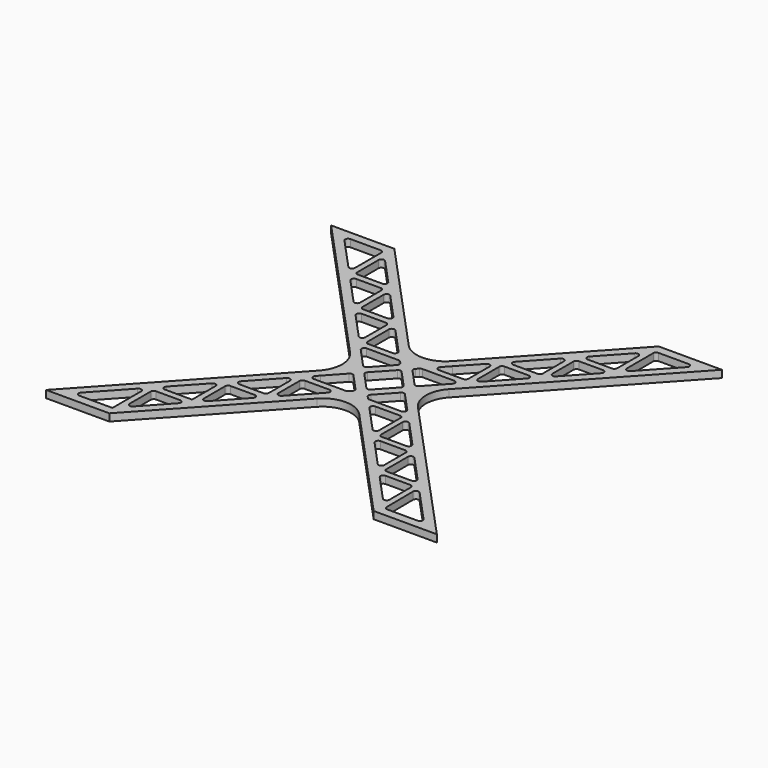
from build123d import *

# Parameters (mm, degrees)
F1_DEPTH = 12.7


with BuildPart() as f1:
    # F0 (on Top) → F1 (new body)
    with BuildSketch(Plane.XY):
        with BuildLine():
            Line((-86.110934, 276.160037), (-340, 0))
            Line((-340, 0), (-230, 0))
            Line((-230, 0), (-36.808381, 210.138252))
            ThreePointArc((-36.808381, 210.138252), (0, 226.298289), (36.808381, 210.138252))
            Line((36.808381, 210.138252), (230, 0))
            Line((230, 0), (340, 0))
            Line((340, 0), (86.110934, 276.160037))
            ThreePointArc((86.110934, 276.160037), (72.919315, 310), (86.110934, 343.839963))
            Line((86.110934, 343.839963), (340, 620))
            Line((340, 620), (230, 620))
            Line((230, 620), (36.808381, 409.861748))
            ThreePointArc((36.808381, 409.861748), (0, 393.701711), (-36.808381, 409.861748))
            Line((-36.808381, 409.861748), (-230, 620))
            Line((-230, 620), (-340, 620))
            Line((-340, 620), (-86.110934, 343.839963))
            ThreePointArc((-86.110934, 343.839963), (-72.919315, 310), (-86.110934, 276.160037))
        make_face()
        with BuildLine():
            Line((-236.585472, 15), (-294.445177, 15))
            ThreePointArc((-294.445177, 15), (-299.023386, 17.990023), (-298.126015, 23.383996))
            Line((-298.126015, 23.383996), (-245.26631, 80.880518))
            ThreePointArc((-245.26631, 80.880518), (-239.769458, 82.155073), (-236.585472, 77.496522))
            Line((-236.585472, 77.496522), (-236.585472, 15))
        make_face(mode=Mode.SUBTRACT)
        with BuildLine():
            Line((-175.044928, 81.938837), (-217.428801, 35.837081))
            ThreePointArc((-217.428801, 35.837081), (-222.925652, 34.562526), (-226.109639, 39.221077))
            Line((-226.109639, 39.221077), (-226.109639, 85.322833))
            ThreePointArc((-226.109639, 85.322833), (-224.645173, 88.858367), (-221.109639, 90.322833))
            Line((-221.109639, 90.322833), (-178.725766, 90.322833))
            ThreePointArc((-178.725766, 90.322833), (-174.147558, 87.332811), (-175.044928, 81.938837))
        make_face(mode=Mode.SUBTRACT)
        with BuildLine():
            Line((-167.337061, 152.819355), (-167.337061, 101.717599))
            Line((-167.337061, 101.717599), (-214.720933, 101.717599))
            ThreePointArc((-214.720933, 101.717599), (-219.299142, 104.707621), (-218.401771, 110.101595))
            Line((-218.401771, 110.101595), (-176.017899, 156.203351))
            ThreePointArc((-176.017899, 156.203351), (-170.521047, 157.477906), (-167.337061, 152.819355))
        make_face(mode=Mode.SUBTRACT)
        with BuildLine():
            ThreePointArc((-156.861228, 160.645667), (-155.396762, 164.1812), (-151.861228, 165.645667))
            Line((-151.861228, 165.645667), (-109.477355, 165.645667))
            ThreePointArc((-109.477355, 165.645667), (-104.899147, 162.655644), (-105.796517, 157.26167))
            Line((-105.796517, 157.26167), (-148.18039, 111.159914))
            ThreePointArc((-148.18039, 111.159914), (-153.677241, 109.885359), (-156.861228, 114.54391))
            Line((-156.861228, 114.54391), (-156.861228, 160.645667))
        make_face(mode=Mode.SUBTRACT)
        with BuildLine():
            Line((-98.088649, 228.142188), (-98.088649, 182.040432))
            ThreePointArc((-98.088649, 182.040432), (-99.553115, 178.504898), (-103.088649, 177.040432))
            Line((-103.088649, 177.040432), (-145.472522, 177.040432))
            ThreePointArc((-145.472522, 177.040432), (-150.05073, 180.030455), (-149.15336, 185.424428))
            Line((-149.15336, 185.424428), (-106.769487, 231.526185))
            ThreePointArc((-106.769487, 231.526185), (-101.272636, 232.800739), (-98.088649, 228.142188))
        make_face(mode=Mode.SUBTRACT)
        with BuildLine():
            ThreePointArc((-87.612817, 236.020562), (-86.154296, 239.550141), (-82.629646, 241.020533))
            Line((-82.629646, 241.020533), (-40.066199, 241.163798))
            ThreePointArc((-40.066199, 241.163798), (-35.47455, 238.181506), (-36.368531, 232.77983))
            Line((-36.368531, 232.77983), (-47.850895, 220.290241))
            Line((-47.850895, 220.290241), (-78.931978, 186.482747))
            ThreePointArc((-78.931978, 186.482747), (-84.42883, 185.208193), (-87.612817, 189.866743))
            Line((-87.612817, 189.866743), (-87.612817, 236.020562))
        make_face(mode=Mode.SUBTRACT)
        with BuildLine():
            Line((-79.904949, 260.747262), (-75.06842, 266.008048))
            Line((-75.06842, 266.008048), (-48.492941, 294.914709))
            ThreePointArc((-48.492941, 294.914709), (-44.812103, 296.530713), (-41.131265, 294.914709))
            Line((-41.131265, 294.914709), (-13.298991, 264.641007))
            ThreePointArc((-13.298991, 264.641007), (-11.979829, 261.257011), (-13.298991, 257.873015))
            Line((-13.298991, 257.873015), (-16.878724, 253.979269))
            ThreePointArc((-16.878724, 253.979269), (-18.549585, 252.785057), (-20.559563, 252.363265))
            Line((-20.559563, 252.363265), (-76.224111, 252.363265))
            ThreePointArc((-76.224111, 252.363265), (-80.802319, 255.353288), (-79.904949, 260.747262))
        make_face(mode=Mode.SUBTRACT)
        with BuildLine():
            ThreePointArc((-31.513112, 306.616004), (-32.832274, 310), (-31.513112, 313.383996))
            Line((-31.513112, 313.383996), (-3.680838, 343.657698))
            ThreePointArc((-3.680838, 343.657698), (0, 345.273702), (3.680838, 343.657698))
            Line((3.680838, 343.657698), (31.513112, 313.383996))
            ThreePointArc((31.513112, 313.383996), (32.832274, 310), (31.513112, 306.616004))
            Line((31.513112, 306.616004), (3.680838, 276.342302))
            ThreePointArc((3.680838, 276.342302), (0, 274.726298), (-3.680838, 276.342302))
            Line((-3.680838, 276.342302), (-31.513112, 306.616004))
        make_face(mode=Mode.SUBTRACT)
        with BuildLine():
            ThreePointArc((105.191325, 157.919949), (104.293955, 163.313922), (108.872163, 166.303945))
            Line((108.872163, 166.303945), (151.861228, 166.303945))
            ThreePointArc((151.861228, 166.303945), (155.396762, 164.839479), (156.861228, 161.303945))
            Line((156.861228, 161.303945), (156.861228, 114.54391))
            ThreePointArc((156.861228, 114.54391), (153.677241, 109.885359), (148.18039, 111.159914))
            Line((148.18039, 111.159914), (105.191325, 157.919949))
        make_face(mode=Mode.SUBTRACT)
        with BuildLine():
            ThreePointArc((226.109639, 39.221077), (222.925652, 34.562526), (217.428801, 35.837081))
            Line((217.428801, 35.837081), (174.439737, 82.597115))
            ThreePointArc((174.439737, 82.597115), (173.542366, 87.991089), (178.120575, 90.981112))
            Line((178.120575, 90.981112), (221.109639, 90.981112))
            ThreePointArc((221.109639, 90.981112), (224.645173, 89.516646), (226.109639, 85.981112))
            Line((226.109639, 85.981112), (226.109639, 39.221077))
        make_face(mode=Mode.SUBTRACT)
        with BuildLine():
            Line((244.764333, 81.426528), (298.126015, 23.383996))
            ThreePointArc((298.126015, 23.383996), (299.023386, 17.990023), (294.445177, 15))
            Line((294.445177, 15), (241.545805, 15))
            ThreePointArc((241.545805, 15), (238.024379, 16.450414), (236.545964, 19.960176))
            Line((236.545964, 19.960176), (236.083654, 78.002708))
            ThreePointArc((236.083654, 78.002708), (239.248944, 82.693813), (244.764333, 81.426528))
        make_face(mode=Mode.SUBTRACT)
        with BuildLine():
            Line((166.731869, 106.717599), (166.731869, 153.477634))
            ThreePointArc((166.731869, 153.477634), (169.915856, 158.136184), (175.412707, 156.86163))
            Line((175.412707, 156.86163), (218.247614, 110.269275))
            ThreePointArc((218.247614, 110.269275), (219.162932, 104.767422), (214.493159, 101.717599))
            Line((214.493159, 101.717599), (171.731869, 101.717599))
            ThreePointArc((171.731869, 101.717599), (168.196335, 103.182065), (166.731869, 106.717599))
        make_face(mode=Mode.SUBTRACT)
        with BuildLine():
            ThreePointArc((82.595987, 241.576668), (86.142395, 240.118176), (87.612817, 236.576697))
            Line((87.612817, 236.576697), (87.612817, 189.866743))
            ThreePointArc((87.612817, 189.866743), (84.42883, 185.208193), (78.931978, 186.482747))
            Line((78.931978, 186.482747), (47.850895, 220.290241))
            Line((47.850895, 220.290241), (36.121433, 233.048604))
            ThreePointArc((36.121433, 233.048604), (35.220686, 238.43487), (39.785441, 241.432572))
            Line((39.785441, 241.432572), (82.595987, 241.576668))
        make_face(mode=Mode.SUBTRACT)
        with BuildLine():
            Line((97.483458, 182.040432), (97.483458, 228.800467))
            ThreePointArc((97.483458, 228.800467), (100.667444, 233.459018), (106.164296, 232.184463))
            Line((106.164296, 232.184463), (149.15336, 185.424428))
            ThreePointArc((149.15336, 185.424428), (150.05073, 180.030455), (145.472522, 177.040432))
            Line((145.472522, 177.040432), (102.483458, 177.040432))
            ThreePointArc((102.483458, 177.040432), (98.947924, 178.504898), (97.483458, 182.040432))
        make_face(mode=Mode.SUBTRACT)
        with BuildLine():
            Line((48.492941, 294.914709), (75.06842, 266.008048))
            Line((75.06842, 266.008048), (79.904949, 260.747262))
            ThreePointArc((79.904949, 260.747262), (80.802319, 255.353288), (76.224111, 252.363265))
            Line((76.224111, 252.363265), (20.559563, 252.363265))
            ThreePointArc((20.559563, 252.363265), (18.549585, 252.785057), (16.878724, 253.979269))
            Line((16.878724, 253.979269), (13.298991, 257.873015))
            ThreePointArc((13.298991, 257.873015), (11.979829, 261.257011), (13.298991, 264.641007))
            Line((13.298991, 264.641007), (41.131265, 294.914709))
            ThreePointArc((41.131265, 294.914709), (44.812103, 296.530713), (48.492941, 294.914709))
        make_face(mode=Mode.SUBTRACT)
        with BuildLine():
            Line((-48.492941, 325.085291), (-75.06842, 353.991952))
            Line((-75.06842, 353.991952), (-79.904782, 359.252557))
            ThreePointArc((-79.904782, 359.252557), (-80.802152, 364.64653), (-76.223944, 367.636553))
            Line((-76.223944, 367.636553), (-20.559395, 367.636553))
            ThreePointArc((-20.559395, 367.636553), (-18.549418, 367.214761), (-16.878557, 366.020549))
            Line((-16.878557, 366.020549), (-13.298991, 362.126985))
            ThreePointArc((-13.298991, 362.126985), (-11.979829, 358.742989), (-13.298991, 355.358993))
            Line((-13.298991, 355.358993), (-41.131265, 325.085291))
            ThreePointArc((-41.131265, 325.085291), (-44.812103, 323.469287), (-48.492941, 325.085291))
        make_face(mode=Mode.SUBTRACT)
        with BuildLine():
            ThreePointArc((-103.088649, 442.959386), (-99.553115, 441.49492), (-98.088649, 437.959386))
            Line((-98.088649, 437.959386), (-98.088649, 391.857812))
            ThreePointArc((-98.088649, 391.857812), (-101.272636, 387.199261), (-106.769487, 388.473815))
            Line((-106.769487, 388.473815), (-149.153193, 434.57539))
            ThreePointArc((-149.153193, 434.57539), (-150.050563, 439.969364), (-145.472355, 442.959386))
            Line((-145.472355, 442.959386), (-103.088649, 442.959386))
        make_face(mode=Mode.SUBTRACT)
        with BuildLine():
            Line((-78.931811, 433.517071), (-47.850895, 399.709759))
            Line((-47.850895, 399.709759), (-36.548106, 387.415497))
            ThreePointArc((-36.548106, 387.415497), (-35.650736, 382.021523), (-40.228944, 379.0315))
            Line((-40.228944, 379.0315), (-82.612649, 379.0315))
            ThreePointArc((-82.612649, 379.0315), (-86.148183, 380.495966), (-87.612649, 384.0315))
            Line((-87.612649, 384.0315), (-87.612649, 430.133075))
            ThreePointArc((-87.612649, 430.133075), (-84.428663, 434.791625), (-78.931811, 433.517071))
        make_face(mode=Mode.SUBTRACT)
        with BuildLine():
            ThreePointArc((-172.337061, 518.282219), (-168.801527, 516.817753), (-167.337061, 513.282219))
            Line((-167.337061, 513.282219), (-167.337061, 467.180645))
            ThreePointArc((-167.337061, 467.180645), (-170.521047, 462.522094), (-176.017899, 463.796649))
            Line((-176.017899, 463.796649), (-218.401604, 509.898223))
            ThreePointArc((-218.401604, 509.898223), (-219.298974, 515.292197), (-214.720766, 518.282219))
            Line((-214.720766, 518.282219), (-172.337061, 518.282219))
        make_face(mode=Mode.SUBTRACT)
        with BuildLine():
            ThreePointArc((-298.126015, 596.616004), (-299.023386, 602.009977), (-294.445177, 605))
            Line((-294.445177, 605), (-241.585472, 605))
            ThreePointArc((-241.585472, 605), (-238.049938, 603.535534), (-236.585472, 600))
            Line((-236.585472, 600), (-236.585472, 542.503478))
            ThreePointArc((-236.585472, 542.503478), (-239.769458, 537.844927), (-245.26631, 539.119482))
            Line((-245.26631, 539.119482), (-298.126015, 596.616004))
        make_face(mode=Mode.SUBTRACT)
        with BuildLine():
            Line((-178.725766, 529.677167), (-221.109472, 529.677167))
            ThreePointArc((-221.109472, 529.677167), (-224.645006, 531.141633), (-226.109472, 534.677167))
            Line((-226.109472, 534.677167), (-226.109472, 580.778741))
            ThreePointArc((-226.109472, 580.778741), (-222.925485, 585.437292), (-217.428634, 584.162738))
            Line((-217.428634, 584.162738), (-175.044928, 538.061163))
            ThreePointArc((-175.044928, 538.061163), (-174.147558, 532.667189), (-178.725766, 529.677167))
        make_face(mode=Mode.SUBTRACT)
        with BuildLine():
            Line((-109.477355, 454.354333), (-151.861061, 454.354333))
            ThreePointArc((-151.861061, 454.354333), (-155.396594, 455.8188), (-156.861061, 459.354333))
            Line((-156.861061, 459.354333), (-156.861061, 505.455908))
            ThreePointArc((-156.861061, 505.455908), (-153.677074, 510.114459), (-148.180222, 508.839904))
            Line((-148.180222, 508.839904), (-105.796517, 462.73833))
            ThreePointArc((-105.796517, 462.73833), (-104.899147, 457.344356), (-109.477355, 454.354333))
        make_face(mode=Mode.SUBTRACT)
        with BuildLine():
            Line((79.904782, 359.252557), (75.06842, 353.991952))
            Line((75.06842, 353.991952), (48.492941, 325.085291))
            ThreePointArc((48.492941, 325.085291), (44.812103, 323.469287), (41.131265, 325.085291))
            Line((41.131265, 325.085291), (13.298991, 355.358993))
            ThreePointArc((13.298991, 355.358993), (11.979829, 358.742989), (13.298991, 362.126985))
            Line((13.298991, 362.126985), (16.878557, 366.020549))
            ThreePointArc((16.878557, 366.020549), (18.549418, 367.214761), (20.559395, 367.636553))
            Line((20.559395, 367.636553), (76.223944, 367.636553))
            ThreePointArc((76.223944, 367.636553), (80.802152, 364.64653), (79.904782, 359.252557))
        make_face(mode=Mode.SUBTRACT)
        with BuildLine():
            ThreePointArc((78.931811, 433.517071), (84.428663, 434.791625), (87.612649, 430.133075))
            Line((87.612649, 430.133075), (87.612649, 384.0315))
            ThreePointArc((87.612649, 384.0315), (86.148183, 380.495966), (82.612649, 379.0315))
            Line((82.612649, 379.0315), (40.228944, 379.0315))
            ThreePointArc((40.228944, 379.0315), (35.650736, 382.021523), (36.548106, 387.415497))
            Line((36.548106, 387.415497), (47.850895, 399.709759))
            Line((47.850895, 399.709759), (78.931811, 433.517071))
        make_face(mode=Mode.SUBTRACT)
        with BuildLine():
            ThreePointArc((106.769487, 388.473815), (101.272636, 387.199261), (98.088649, 391.857812))
            Line((98.088649, 391.857812), (98.088649, 437.959386))
            ThreePointArc((98.088649, 437.959386), (99.553115, 441.49492), (103.088649, 442.959386))
            Line((103.088649, 442.959386), (145.472355, 442.959386))
            ThreePointArc((145.472355, 442.959386), (150.050563, 439.969364), (149.153193, 434.57539))
            Line((149.153193, 434.57539), (106.769487, 388.473815))
        make_face(mode=Mode.SUBTRACT)
        with BuildLine():
            Line((151.861061, 454.354333), (109.477355, 454.354333))
            ThreePointArc((109.477355, 454.354333), (104.899147, 457.344356), (105.796517, 462.73833))
            Line((105.796517, 462.73833), (148.180222, 508.839904))
            ThreePointArc((148.180222, 508.839904), (153.677074, 510.114459), (156.861061, 505.455908))
            Line((156.861061, 505.455908), (156.861061, 459.354333))
            ThreePointArc((156.861061, 459.354333), (155.396594, 455.8188), (151.861061, 454.354333))
        make_face(mode=Mode.SUBTRACT)
        with BuildLine():
            ThreePointArc((176.017899, 463.796649), (170.521047, 462.522094), (167.337061, 467.180645))
            Line((167.337061, 467.180645), (167.337061, 513.282219))
            ThreePointArc((167.337061, 513.282219), (168.801527, 516.817753), (172.337061, 518.282219))
            Line((172.337061, 518.282219), (214.720766, 518.282219))
            ThreePointArc((214.720766, 518.282219), (219.298974, 515.292197), (218.401604, 509.898223))
            Line((218.401604, 509.898223), (176.017899, 463.796649))
        make_face(mode=Mode.SUBTRACT)
        with BuildLine():
            Line((175.044928, 538.061163), (217.428634, 584.162738))
            ThreePointArc((217.428634, 584.162738), (222.925485, 585.437292), (226.109472, 580.778741))
            Line((226.109472, 580.778741), (226.109472, 534.677167))
            ThreePointArc((226.109472, 534.677167), (224.645006, 531.141633), (221.109472, 529.677167))
            Line((221.109472, 529.677167), (178.725766, 529.677167))
            ThreePointArc((178.725766, 529.677167), (174.147558, 532.667189), (175.044928, 538.061163))
        make_face(mode=Mode.SUBTRACT)
        with BuildLine():
            ThreePointArc((236.585472, 600), (238.049938, 603.535534), (241.585472, 605))
            Line((241.585472, 605), (294.445177, 605))
            ThreePointArc((294.445177, 605), (299.023386, 602.009977), (298.126015, 596.616004))
            Line((298.126015, 596.616004), (245.26631, 539.119482))
            ThreePointArc((245.26631, 539.119482), (239.769458, 537.844927), (236.585472, 542.503478))
            Line((236.585472, 542.503478), (236.585472, 600))
        make_face(mode=Mode.SUBTRACT)
        with BuildLine():
            Line((-86.110934, 276.160037), (-340, 0))
            Line((-340, 0), (-230, 0))
            Line((-230, 0), (-36.808381, 210.138252))
            ThreePointArc((-36.808381, 210.138252), (0, 226.298289), (36.808381, 210.138252))
            Line((36.808381, 210.138252), (230, 0))
            Line((230, 0), (340, 0))
            Line((340, 0), (86.110934, 276.160037))
            ThreePointArc((86.110934, 276.160037), (72.919315, 310), (86.110934, 343.839963))
            Line((86.110934, 343.839963), (340, 620))
            Line((340, 620), (230, 620))
            Line((230, 620), (36.808381, 409.861748))
            ThreePointArc((36.808381, 409.861748), (0, 393.701711), (-36.808381, 409.861748))
            Line((-36.808381, 409.861748), (-230, 620))
            Line((-230, 620), (-340, 620))
            Line((-340, 620), (-86.110934, 343.839963))
            ThreePointArc((-86.110934, 343.839963), (-72.919315, 310), (-86.110934, 276.160037))
        make_face()
        with BuildLine():
            Line((-236.585472, 15), (-294.445177, 15))
            ThreePointArc((-294.445177, 15), (-299.023386, 17.990023), (-298.126015, 23.383996))
            Line((-298.126015, 23.383996), (-245.26631, 80.880518))
            ThreePointArc((-245.26631, 80.880518), (-239.769458, 82.155073), (-236.585472, 77.496522))
            Line((-236.585472, 77.496522), (-236.585472, 15))
        make_face(mode=Mode.SUBTRACT)
        with BuildLine():
            Line((-175.044928, 81.938837), (-217.428801, 35.837081))
            ThreePointArc((-217.428801, 35.837081), (-222.925652, 34.562526), (-226.109639, 39.221077))
            Line((-226.109639, 39.221077), (-226.109639, 85.322833))
            ThreePointArc((-226.109639, 85.322833), (-224.645173, 88.858367), (-221.109639, 90.322833))
            Line((-221.109639, 90.322833), (-178.725766, 90.322833))
            ThreePointArc((-178.725766, 90.322833), (-174.147558, 87.332811), (-175.044928, 81.938837))
        make_face(mode=Mode.SUBTRACT)
        with BuildLine():
            Line((-167.337061, 152.819355), (-167.337061, 101.717599))
            Line((-167.337061, 101.717599), (-214.720933, 101.717599))
            ThreePointArc((-214.720933, 101.717599), (-219.299142, 104.707621), (-218.401771, 110.101595))
            Line((-218.401771, 110.101595), (-176.017899, 156.203351))
            ThreePointArc((-176.017899, 156.203351), (-170.521047, 157.477906), (-167.337061, 152.819355))
        make_face(mode=Mode.SUBTRACT)
        with BuildLine():
            ThreePointArc((-156.861228, 160.645667), (-155.396762, 164.1812), (-151.861228, 165.645667))
            Line((-151.861228, 165.645667), (-109.477355, 165.645667))
            ThreePointArc((-109.477355, 165.645667), (-104.899147, 162.655644), (-105.796517, 157.26167))
            Line((-105.796517, 157.26167), (-148.18039, 111.159914))
            ThreePointArc((-148.18039, 111.159914), (-153.677241, 109.885359), (-156.861228, 114.54391))
            Line((-156.861228, 114.54391), (-156.861228, 160.645667))
        make_face(mode=Mode.SUBTRACT)
        with BuildLine():
            Line((-98.088649, 228.142188), (-98.088649, 182.040432))
            ThreePointArc((-98.088649, 182.040432), (-99.553115, 178.504898), (-103.088649, 177.040432))
            Line((-103.088649, 177.040432), (-145.472522, 177.040432))
            ThreePointArc((-145.472522, 177.040432), (-150.05073, 180.030455), (-149.15336, 185.424428))
            Line((-149.15336, 185.424428), (-106.769487, 231.526185))
            ThreePointArc((-106.769487, 231.526185), (-101.272636, 232.800739), (-98.088649, 228.142188))
        make_face(mode=Mode.SUBTRACT)
        with BuildLine():
            ThreePointArc((-87.612817, 236.020562), (-86.154296, 239.550141), (-82.629646, 241.020533))
            Line((-82.629646, 241.020533), (-40.066199, 241.163798))
            ThreePointArc((-40.066199, 241.163798), (-35.47455, 238.181506), (-36.368531, 232.77983))
            Line((-36.368531, 232.77983), (-47.850895, 220.290241))
            Line((-47.850895, 220.290241), (-78.931978, 186.482747))
            ThreePointArc((-78.931978, 186.482747), (-84.42883, 185.208193), (-87.612817, 189.866743))
            Line((-87.612817, 189.866743), (-87.612817, 236.020562))
        make_face(mode=Mode.SUBTRACT)
        with BuildLine():
            Line((-79.904949, 260.747262), (-75.06842, 266.008048))
            Line((-75.06842, 266.008048), (-48.492941, 294.914709))
            ThreePointArc((-48.492941, 294.914709), (-44.812103, 296.530713), (-41.131265, 294.914709))
            Line((-41.131265, 294.914709), (-13.298991, 264.641007))
            ThreePointArc((-13.298991, 264.641007), (-11.979829, 261.257011), (-13.298991, 257.873015))
            Line((-13.298991, 257.873015), (-16.878724, 253.979269))
            ThreePointArc((-16.878724, 253.979269), (-18.549585, 252.785057), (-20.559563, 252.363265))
            Line((-20.559563, 252.363265), (-76.224111, 252.363265))
            ThreePointArc((-76.224111, 252.363265), (-80.802319, 255.353288), (-79.904949, 260.747262))
        make_face(mode=Mode.SUBTRACT)
        with BuildLine():
            ThreePointArc((-31.513112, 306.616004), (-32.832274, 310), (-31.513112, 313.383996))
            Line((-31.513112, 313.383996), (-3.680838, 343.657698))
            ThreePointArc((-3.680838, 343.657698), (0, 345.273702), (3.680838, 343.657698))
            Line((3.680838, 343.657698), (31.513112, 313.383996))
            ThreePointArc((31.513112, 313.383996), (32.832274, 310), (31.513112, 306.616004))
            Line((31.513112, 306.616004), (3.680838, 276.342302))
            ThreePointArc((3.680838, 276.342302), (0, 274.726298), (-3.680838, 276.342302))
            Line((-3.680838, 276.342302), (-31.513112, 306.616004))
        make_face(mode=Mode.SUBTRACT)
        with BuildLine():
            ThreePointArc((105.191325, 157.919949), (104.293955, 163.313922), (108.872163, 166.303945))
            Line((108.872163, 166.303945), (151.861228, 166.303945))
            ThreePointArc((151.861228, 166.303945), (155.396762, 164.839479), (156.861228, 161.303945))
            Line((156.861228, 161.303945), (156.861228, 114.54391))
            ThreePointArc((156.861228, 114.54391), (153.677241, 109.885359), (148.18039, 111.159914))
            Line((148.18039, 111.159914), (105.191325, 157.919949))
        make_face(mode=Mode.SUBTRACT)
        with BuildLine():
            ThreePointArc((226.109639, 39.221077), (222.925652, 34.562526), (217.428801, 35.837081))
            Line((217.428801, 35.837081), (174.439737, 82.597115))
            ThreePointArc((174.439737, 82.597115), (173.542366, 87.991089), (178.120575, 90.981112))
            Line((178.120575, 90.981112), (221.109639, 90.981112))
            ThreePointArc((221.109639, 90.981112), (224.645173, 89.516646), (226.109639, 85.981112))
            Line((226.109639, 85.981112), (226.109639, 39.221077))
        make_face(mode=Mode.SUBTRACT)
        with BuildLine():
            Line((244.764333, 81.426528), (298.126015, 23.383996))
            ThreePointArc((298.126015, 23.383996), (299.023386, 17.990023), (294.445177, 15))
            Line((294.445177, 15), (241.545805, 15))
            ThreePointArc((241.545805, 15), (238.024379, 16.450414), (236.545964, 19.960176))
            Line((236.545964, 19.960176), (236.083654, 78.002708))
            ThreePointArc((236.083654, 78.002708), (239.248944, 82.693813), (244.764333, 81.426528))
        make_face(mode=Mode.SUBTRACT)
        with BuildLine():
            Line((166.731869, 106.717599), (166.731869, 153.477634))
            ThreePointArc((166.731869, 153.477634), (169.915856, 158.136184), (175.412707, 156.86163))
            Line((175.412707, 156.86163), (218.247614, 110.269275))
            ThreePointArc((218.247614, 110.269275), (219.162932, 104.767422), (214.493159, 101.717599))
            Line((214.493159, 101.717599), (171.731869, 101.717599))
            ThreePointArc((171.731869, 101.717599), (168.196335, 103.182065), (166.731869, 106.717599))
        make_face(mode=Mode.SUBTRACT)
        with BuildLine():
            ThreePointArc((82.595987, 241.576668), (86.142395, 240.118176), (87.612817, 236.576697))
            Line((87.612817, 236.576697), (87.612817, 189.866743))
            ThreePointArc((87.612817, 189.866743), (84.42883, 185.208193), (78.931978, 186.482747))
            Line((78.931978, 186.482747), (47.850895, 220.290241))
            Line((47.850895, 220.290241), (36.121433, 233.048604))
            ThreePointArc((36.121433, 233.048604), (35.220686, 238.43487), (39.785441, 241.432572))
            Line((39.785441, 241.432572), (82.595987, 241.576668))
        make_face(mode=Mode.SUBTRACT)
        with BuildLine():
            Line((97.483458, 182.040432), (97.483458, 228.800467))
            ThreePointArc((97.483458, 228.800467), (100.667444, 233.459018), (106.164296, 232.184463))
            Line((106.164296, 232.184463), (149.15336, 185.424428))
            ThreePointArc((149.15336, 185.424428), (150.05073, 180.030455), (145.472522, 177.040432))
            Line((145.472522, 177.040432), (102.483458, 177.040432))
            ThreePointArc((102.483458, 177.040432), (98.947924, 178.504898), (97.483458, 182.040432))
        make_face(mode=Mode.SUBTRACT)
        with BuildLine():
            Line((48.492941, 294.914709), (75.06842, 266.008048))
            Line((75.06842, 266.008048), (79.904949, 260.747262))
            ThreePointArc((79.904949, 260.747262), (80.802319, 255.353288), (76.224111, 252.363265))
            Line((76.224111, 252.363265), (20.559563, 252.363265))
            ThreePointArc((20.559563, 252.363265), (18.549585, 252.785057), (16.878724, 253.979269))
            Line((16.878724, 253.979269), (13.298991, 257.873015))
            ThreePointArc((13.298991, 257.873015), (11.979829, 261.257011), (13.298991, 264.641007))
            Line((13.298991, 264.641007), (41.131265, 294.914709))
            ThreePointArc((41.131265, 294.914709), (44.812103, 296.530713), (48.492941, 294.914709))
        make_face(mode=Mode.SUBTRACT)
        with BuildLine():
            Line((-48.492941, 325.085291), (-75.06842, 353.991952))
            Line((-75.06842, 353.991952), (-79.904782, 359.252557))
            ThreePointArc((-79.904782, 359.252557), (-80.802152, 364.64653), (-76.223944, 367.636553))
            Line((-76.223944, 367.636553), (-20.559395, 367.636553))
            ThreePointArc((-20.559395, 367.636553), (-18.549418, 367.214761), (-16.878557, 366.020549))
            Line((-16.878557, 366.020549), (-13.298991, 362.126985))
            ThreePointArc((-13.298991, 362.126985), (-11.979829, 358.742989), (-13.298991, 355.358993))
            Line((-13.298991, 355.358993), (-41.131265, 325.085291))
            ThreePointArc((-41.131265, 325.085291), (-44.812103, 323.469287), (-48.492941, 325.085291))
        make_face(mode=Mode.SUBTRACT)
        with BuildLine():
            ThreePointArc((-103.088649, 442.959386), (-99.553115, 441.49492), (-98.088649, 437.959386))
            Line((-98.088649, 437.959386), (-98.088649, 391.857812))
            ThreePointArc((-98.088649, 391.857812), (-101.272636, 387.199261), (-106.769487, 388.473815))
            Line((-106.769487, 388.473815), (-149.153193, 434.57539))
            ThreePointArc((-149.153193, 434.57539), (-150.050563, 439.969364), (-145.472355, 442.959386))
            Line((-145.472355, 442.959386), (-103.088649, 442.959386))
        make_face(mode=Mode.SUBTRACT)
        with BuildLine():
            Line((-78.931811, 433.517071), (-47.850895, 399.709759))
            Line((-47.850895, 399.709759), (-36.548106, 387.415497))
            ThreePointArc((-36.548106, 387.415497), (-35.650736, 382.021523), (-40.228944, 379.0315))
            Line((-40.228944, 379.0315), (-82.612649, 379.0315))
            ThreePointArc((-82.612649, 379.0315), (-86.148183, 380.495966), (-87.612649, 384.0315))
            Line((-87.612649, 384.0315), (-87.612649, 430.133075))
            ThreePointArc((-87.612649, 430.133075), (-84.428663, 434.791625), (-78.931811, 433.517071))
        make_face(mode=Mode.SUBTRACT)
        with BuildLine():
            ThreePointArc((-172.337061, 518.282219), (-168.801527, 516.817753), (-167.337061, 513.282219))
            Line((-167.337061, 513.282219), (-167.337061, 467.180645))
            ThreePointArc((-167.337061, 467.180645), (-170.521047, 462.522094), (-176.017899, 463.796649))
            Line((-176.017899, 463.796649), (-218.401604, 509.898223))
            ThreePointArc((-218.401604, 509.898223), (-219.298974, 515.292197), (-214.720766, 518.282219))
            Line((-214.720766, 518.282219), (-172.337061, 518.282219))
        make_face(mode=Mode.SUBTRACT)
        with BuildLine():
            ThreePointArc((-298.126015, 596.616004), (-299.023386, 602.009977), (-294.445177, 605))
            Line((-294.445177, 605), (-241.585472, 605))
            ThreePointArc((-241.585472, 605), (-238.049938, 603.535534), (-236.585472, 600))
            Line((-236.585472, 600), (-236.585472, 542.503478))
            ThreePointArc((-236.585472, 542.503478), (-239.769458, 537.844927), (-245.26631, 539.119482))
            Line((-245.26631, 539.119482), (-298.126015, 596.616004))
        make_face(mode=Mode.SUBTRACT)
        with BuildLine():
            Line((-178.725766, 529.677167), (-221.109472, 529.677167))
            ThreePointArc((-221.109472, 529.677167), (-224.645006, 531.141633), (-226.109472, 534.677167))
            Line((-226.109472, 534.677167), (-226.109472, 580.778741))
            ThreePointArc((-226.109472, 580.778741), (-222.925485, 585.437292), (-217.428634, 584.162738))
            Line((-217.428634, 584.162738), (-175.044928, 538.061163))
            ThreePointArc((-175.044928, 538.061163), (-174.147558, 532.667189), (-178.725766, 529.677167))
        make_face(mode=Mode.SUBTRACT)
        with BuildLine():
            Line((-109.477355, 454.354333), (-151.861061, 454.354333))
            ThreePointArc((-151.861061, 454.354333), (-155.396594, 455.8188), (-156.861061, 459.354333))
            Line((-156.861061, 459.354333), (-156.861061, 505.455908))
            ThreePointArc((-156.861061, 505.455908), (-153.677074, 510.114459), (-148.180222, 508.839904))
            Line((-148.180222, 508.839904), (-105.796517, 462.73833))
            ThreePointArc((-105.796517, 462.73833), (-104.899147, 457.344356), (-109.477355, 454.354333))
        make_face(mode=Mode.SUBTRACT)
        with BuildLine():
            Line((79.904782, 359.252557), (75.06842, 353.991952))
            Line((75.06842, 353.991952), (48.492941, 325.085291))
            ThreePointArc((48.492941, 325.085291), (44.812103, 323.469287), (41.131265, 325.085291))
            Line((41.131265, 325.085291), (13.298991, 355.358993))
            ThreePointArc((13.298991, 355.358993), (11.979829, 358.742989), (13.298991, 362.126985))
            Line((13.298991, 362.126985), (16.878557, 366.020549))
            ThreePointArc((16.878557, 366.020549), (18.549418, 367.214761), (20.559395, 367.636553))
            Line((20.559395, 367.636553), (76.223944, 367.636553))
            ThreePointArc((76.223944, 367.636553), (80.802152, 364.64653), (79.904782, 359.252557))
        make_face(mode=Mode.SUBTRACT)
        with BuildLine():
            ThreePointArc((78.931811, 433.517071), (84.428663, 434.791625), (87.612649, 430.133075))
            Line((87.612649, 430.133075), (87.612649, 384.0315))
            ThreePointArc((87.612649, 384.0315), (86.148183, 380.495966), (82.612649, 379.0315))
            Line((82.612649, 379.0315), (40.228944, 379.0315))
            ThreePointArc((40.228944, 379.0315), (35.650736, 382.021523), (36.548106, 387.415497))
            Line((36.548106, 387.415497), (47.850895, 399.709759))
            Line((47.850895, 399.709759), (78.931811, 433.517071))
        make_face(mode=Mode.SUBTRACT)
        with BuildLine():
            ThreePointArc((106.769487, 388.473815), (101.272636, 387.199261), (98.088649, 391.857812))
            Line((98.088649, 391.857812), (98.088649, 437.959386))
            ThreePointArc((98.088649, 437.959386), (99.553115, 441.49492), (103.088649, 442.959386))
            Line((103.088649, 442.959386), (145.472355, 442.959386))
            ThreePointArc((145.472355, 442.959386), (150.050563, 439.969364), (149.153193, 434.57539))
            Line((149.153193, 434.57539), (106.769487, 388.473815))
        make_face(mode=Mode.SUBTRACT)
        with BuildLine():
            Line((151.861061, 454.354333), (109.477355, 454.354333))
            ThreePointArc((109.477355, 454.354333), (104.899147, 457.344356), (105.796517, 462.73833))
            Line((105.796517, 462.73833), (148.180222, 508.839904))
            ThreePointArc((148.180222, 508.839904), (153.677074, 510.114459), (156.861061, 505.455908))
            Line((156.861061, 505.455908), (156.861061, 459.354333))
            ThreePointArc((156.861061, 459.354333), (155.396594, 455.8188), (151.861061, 454.354333))
        make_face(mode=Mode.SUBTRACT)
        with BuildLine():
            ThreePointArc((176.017899, 463.796649), (170.521047, 462.522094), (167.337061, 467.180645))
            Line((167.337061, 467.180645), (167.337061, 513.282219))
            ThreePointArc((167.337061, 513.282219), (168.801527, 516.817753), (172.337061, 518.282219))
            Line((172.337061, 518.282219), (214.720766, 518.282219))
            ThreePointArc((214.720766, 518.282219), (219.298974, 515.292197), (218.401604, 509.898223))
            Line((218.401604, 509.898223), (176.017899, 463.796649))
        make_face(mode=Mode.SUBTRACT)
        with BuildLine():
            Line((175.044928, 538.061163), (217.428634, 584.162738))
            ThreePointArc((217.428634, 584.162738), (222.925485, 585.437292), (226.109472, 580.778741))
            Line((226.109472, 580.778741), (226.109472, 534.677167))
            ThreePointArc((226.109472, 534.677167), (224.645006, 531.141633), (221.109472, 529.677167))
            Line((221.109472, 529.677167), (178.725766, 529.677167))
            ThreePointArc((178.725766, 529.677167), (174.147558, 532.667189), (175.044928, 538.061163))
        make_face(mode=Mode.SUBTRACT)
        with BuildLine():
            ThreePointArc((236.585472, 600), (238.049938, 603.535534), (241.585472, 605))
            Line((241.585472, 605), (294.445177, 605))
            ThreePointArc((294.445177, 605), (299.023386, 602.009977), (298.126015, 596.616004))
            Line((298.126015, 596.616004), (245.26631, 539.119482))
            ThreePointArc((245.26631, 539.119482), (239.769458, 537.844927), (236.585472, 542.503478))
            Line((236.585472, 542.503478), (236.585472, 600))
        make_face(mode=Mode.SUBTRACT)
    extrude(amount=F1_DEPTH)


solid = f1.part
